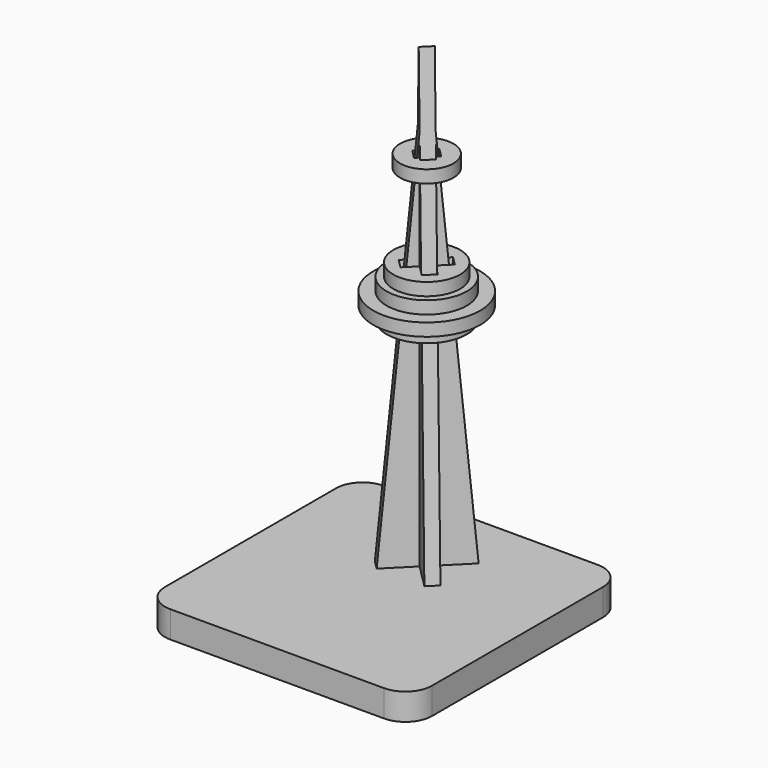
from build123d import *

# Parameters (mm, degrees)
F1_DEPTH  = 6.35
F3_DEPTH  = 3
F5_DEPTH  = 3
F9_DEPTH  = 3
F10_R     = 12.7
F10_R_2   = 9.525
F11_DEPTH = 3
F12_R     = 9.525
F13_DEPTH = 3
F14_R     = 7.9375
F15_DEPTH = 3
F16_R     = 6.35
F17_DEPTH = 3


with BuildPart() as f1:
    # F0 (on Top) → F1 (new body)
    with BuildSketch(Plane.XY):
        with BuildLine():
            ThreePointArc((31.75, 12.7), (29.8901280605, 17.1901280605), (25.4, 19.05))
            Line((25.4, 19.05), (-25.4, 19.05))
            ThreePointArc((-25.4, 19.05), (-29.8901280605, 17.1901280605), (-31.75, 12.7))
            Line((-31.75, 12.7), (-31.75, -38.1))
            ThreePointArc((-31.75, -38.1), (-29.8901280605, -42.5901280605), (-25.4, -44.45))
            Line((-25.4, -44.45), (25.4, -44.45))
            ThreePointArc((25.4, -44.45), (29.8901280605, -42.5901280605), (31.75, -38.1))
            Line((31.75, -38.1), (31.75, 12.7))
        make_face()
        Polygon((-2.1213203436, 0), (-7.7958522626, 5.674531919), (-5.674531919, 7.7958522626), (0, 2.1213203436), (5.674531919, 7.7958522626), (7.7958522626, 5.674531919), (2.1213203436, 0), (7.7958522626, -5.674531919), (5.674531919, -7.7958522626), (0, -2.1213203436), (-5.674531919, -7.7958522626), (-7.7958522626, -5.674531919), align=None, mode=Mode.SUBTRACT)
    extrude(amount=F1_DEPTH)


with BuildPart() as f3:
    # F2 (on face) → F3 (new body)
    with BuildSketch(Plane(origin=(1.0606601718, 1.0606601718, 0), x_dir=(0.7071067812, -0.7071067812, 0), z_dir=(-0.7071067812, -0.7071067812, 0))):
        Polygon((0, 114.3), (-9.525, 6.35), (-9.525, 0), (-1.5, 0), (-1.5, 6.35), (-1.5, 38.1), (1.5, 38.1), (1.5, 6.35), (1.5, 0), (9.525, 0), (9.525, 6.35), align=None)
    extrude(amount=F3_DEPTH)


with BuildPart() as f5:
    # F4 (on face) → F5 (new body)
    with BuildSketch(Plane(origin=(-1.0606601718, 1.0606601718, 0), x_dir=(0.7071067812, 0.7071067812, 0), z_dir=(0.7071067812, -0.7071067812, 0))):
        Polygon((-1.5, 97.3), (-9.525, 6.35), (-9.525, 0), (9.525, 0), (9.525, 6.35), (1.5, 97.3), (1.5, 38.1), (-1.5, 38.1), align=None)
    extrude(amount=F5_DEPTH)


with BuildPart() as f9:
    # F8 (on offset) → F9 (new body)
    with BuildSketch(Plane.XY.offset(57.15)):
        with BuildLine():
            ThreePointArc((-5.5904910444, -7.7118113879), (4.3287525803, -8.4845463107), (9.525, 0))
            ThreePointArc((9.525, 0), (9.0603705352, 2.938589928), (7.7118113879, 5.5904910444))
            ThreePointArc((7.7118113879, 5.5904910444), (6.7351920908, 6.7351920908), (5.5904910444, 7.7118113879))
            ThreePointArc((5.5904910444, 7.7118113879), (-6.7351920908, 6.7351920908), (-7.7118113879, -5.5904910444))
            ThreePointArc((-7.7118113879, -5.5904910444), (-6.7351920908, -6.7351920908), (-5.5904910444, -7.7118113879))
        make_face()
        Polygon((-4.6527626202, 2.5314422766), (-2.5314422766, 4.6527626202), (0, 2.1213203436), (2.5314422766, 4.6527626202), (4.6527626202, 2.5314422766), (2.1213203436, 0), (4.6527626202, -2.5314422766), (2.5314422766, -4.6527626202), (0, -2.1213203436), (-2.5314422766, -4.6527626202), (-4.6527626202, -2.5314422766), (-2.1213203436, 0), align=None, mode=Mode.SUBTRACT)
    extrude(amount=F9_DEPTH)


with BuildPart() as f11:
    # F10 (on face) → F11 (new body)
    with BuildSketch(Plane.XY.offset(60.15)):
        Circle(F10_R)
        Circle(F10_R_2, mode=Mode.SUBTRACT)
        Circle(F10_R_2)
        Polygon((-4.6527626202, -2.5314422766), (-2.1213203436, 0), (-4.6527626202, 2.5314422766), (-2.5314422766, 4.6527626202), (0, 2.1213203436), (2.5314422766, 4.6527626202), (4.6527626202, 2.5314422766), (2.1213203436, 0), (4.6527626202, -2.5314422766), (2.5314422766, -4.6527626202), (0, -2.1213203436), (-2.5314422766, -4.6527626202), align=None, mode=Mode.SUBTRACT)
    extrude(amount=F11_DEPTH)


with BuildPart() as f13:
    # F12 (on face) → F13 (new body)
    with BuildSketch(Plane.XY.offset(63.15)):
        Circle(F12_R)
        Polygon((2.5314422766, 4.6527626202), (4.6527626202, 2.5314422766), (2.1213203436, 0), (4.6527626202, -2.5314422766), (2.5314422766, -4.6527626202), (0, -2.1213203436), (-2.5314422766, -4.6527626202), (-4.6527626202, -2.5314422766), (-2.1213203436, 0), (-4.6527626202, 2.5314422766), (-2.5314422766, 4.6527626202), (0, 2.1213203436), align=None, mode=Mode.SUBTRACT)
    extrude(amount=F13_DEPTH)


with BuildPart() as f15:
    # F14 (on face) → F15 (new body)
    with BuildSketch(Plane.XY.offset(66.15)):
        Circle(F14_R)
        Polygon((-4.6527626202, -2.5314422766), (-2.1213203436, 0), (-4.6527626202, 2.5314422766), (-2.5314422766, 4.6527626202), (0, 2.1213203436), (2.5314422766, 4.6527626202), (4.6527626202, 2.5314422766), (2.1213203436, 0), (4.6527626202, -2.5314422766), (2.5314422766, -4.6527626202), (0, -2.1213203436), (-2.5314422766, -4.6527626202), align=None, mode=Mode.SUBTRACT)
    extrude(amount=F15_DEPTH)


with BuildPart() as f17:
    # F16 (on offset) → F17 (new body)
    with BuildSketch(Plane.XY.offset(88.9)):
        Circle(F16_R)
        Polygon((-2.856711396, 0.7353910524), (-0.7353910524, 2.856711396), (0, 2.1213203436), (0.7353910524, 2.856711396), (2.856711396, 0.7353910524), (2.1213203436, 0), (2.856711396, -0.7353910524), (0.7353910524, -2.856711396), (0, -2.1213203436), (-0.7353910524, -2.856711396), (-2.856711396, -0.7353910524), (-2.1213203436, 0), align=None, mode=Mode.SUBTRACT)
    extrude(amount=F17_DEPTH)


solid = Compound([f1.part, f3.part, f5.part, f9.part, f11.part, f13.part, f15.part, f17.part])
